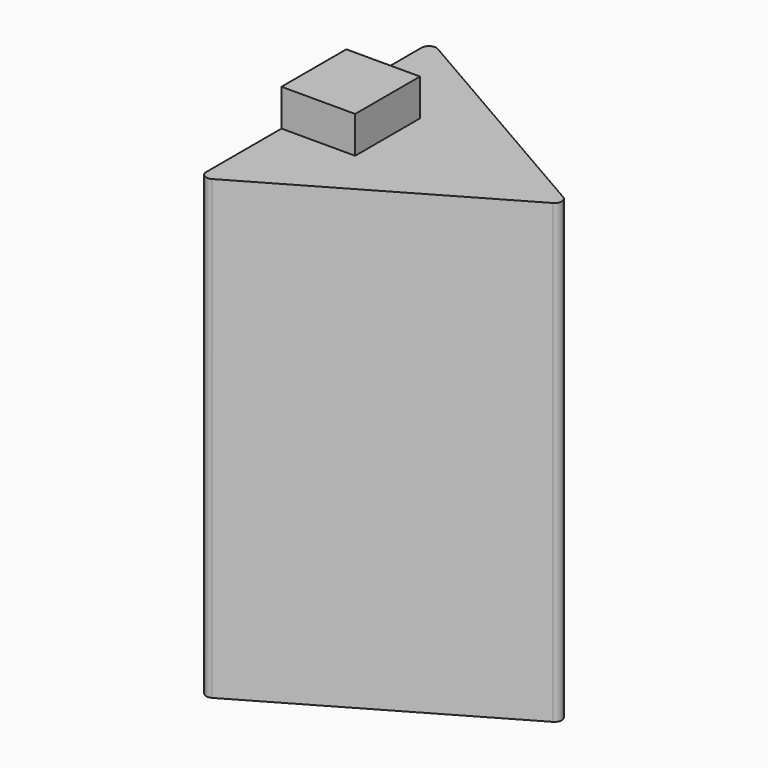
from build123d import *

# Parameters (mm, degrees)
PAD_DEPTH    = 62
FILLET_R     = 1
SKETCH001_W  = 10
SKETCH001_H  = 11
PAD001_DEPTH = 5


with BuildPart() as part:
    # Sketch (on XY_Plane of Origin) → Pad (new body)
    with BuildSketch(Plane.XY):
        Polygon((23.094011, 0), (-11.547005, 20), (-11.547005, -20), align=None)
    extrude(amount=PAD_DEPTH)

    # Fillet
    fillet_edges = [part.edges().sort_by_distance(p)[0] for p in [
        (-11.547005, 20, 31),
        (23.094011, 0, 31),
        (-11.547005, -20, 31),
    ]]
    fillet(fillet_edges, radius=FILLET_R)

    # Sketch001 (on Face5 of Fillet) → Pad001 (join)
    with BuildSketch(Plane.XY.offset(62)):
        with Locations((-6.547005, 0)):
            Rectangle(SKETCH001_W, SKETCH001_H)
    extrude(amount=PAD001_DEPTH)


solid = part.part
